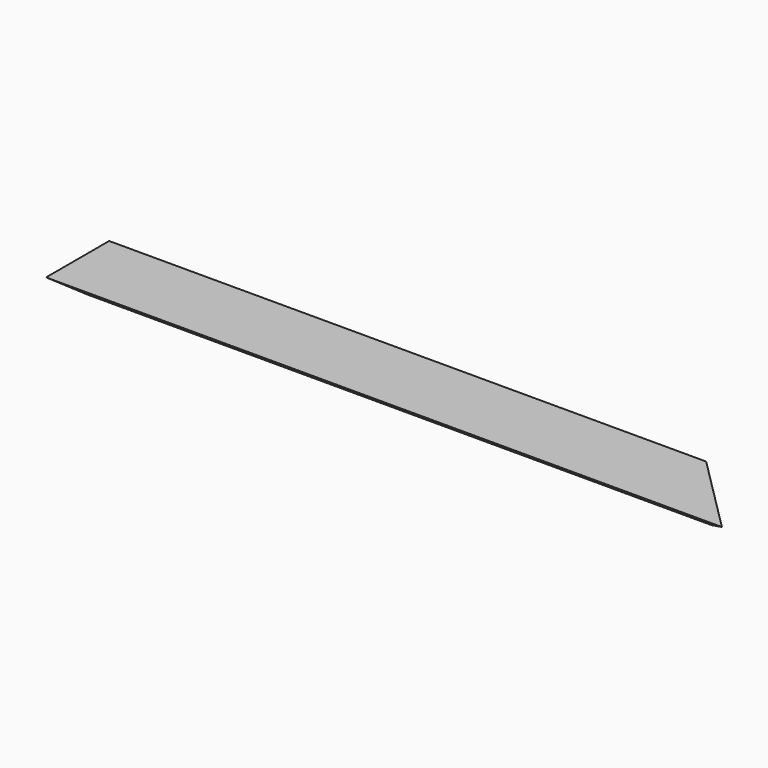
from build123d import *

# Parameters (mm, degrees)
F1_DEPTH      = 228.6
F1_DEPTH_BACK = 228.6
F3_DEPTH      = 19.051


with BuildPart() as f1:
    # F0 (on Right) → F1 (new body, two sides)
    with BuildSketch(Plane.YZ) as f1_sk:
        Polygon((0, 0), (0, 19.05), (-41.91, 19.05), (-14.70378, 0), align=None)
    extrude(amount=F1_DEPTH)
    extrude(f1_sk.sketch, amount=-F1_DEPTH_BACK)

    # F2 (on Top) → F3 (cut, through all)
    with BuildSketch(Plane.XY):
        Polygon((238.762495, 0), (88.9, 0), (238.762495, -149.862495), align=None)
    extrude(amount=F3_DEPTH, mode=Mode.SUBTRACT)


solid = f1.part
